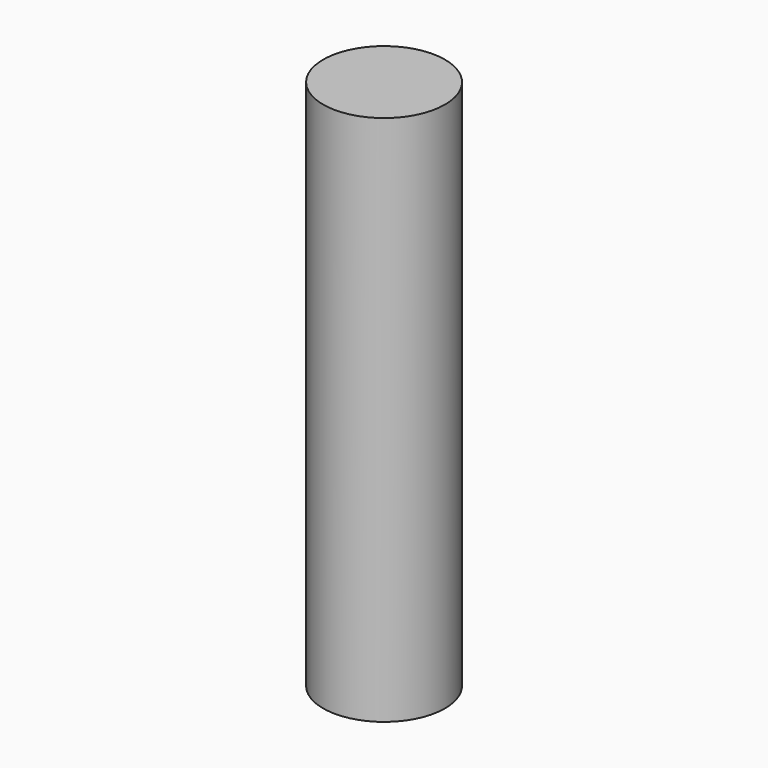
from build123d import *

# Parameters (mm, degrees)
F0_R     = 27.5
F1_DEPTH = 180
F2_DEPTH = 240


with BuildPart() as f1:
    # F0 (on Top) → F1 (new body)
    with BuildSketch(Plane.XY):
        Circle(F0_R)
    extrude(amount=-F1_DEPTH)


with BuildPart() as f2:
    # F0 (on Top) → F2 (new body)
    with BuildSketch(Plane.XY):
        Circle(F0_R)
    extrude(amount=-F2_DEPTH)


solid = Compound([f1.part, f2.part])
